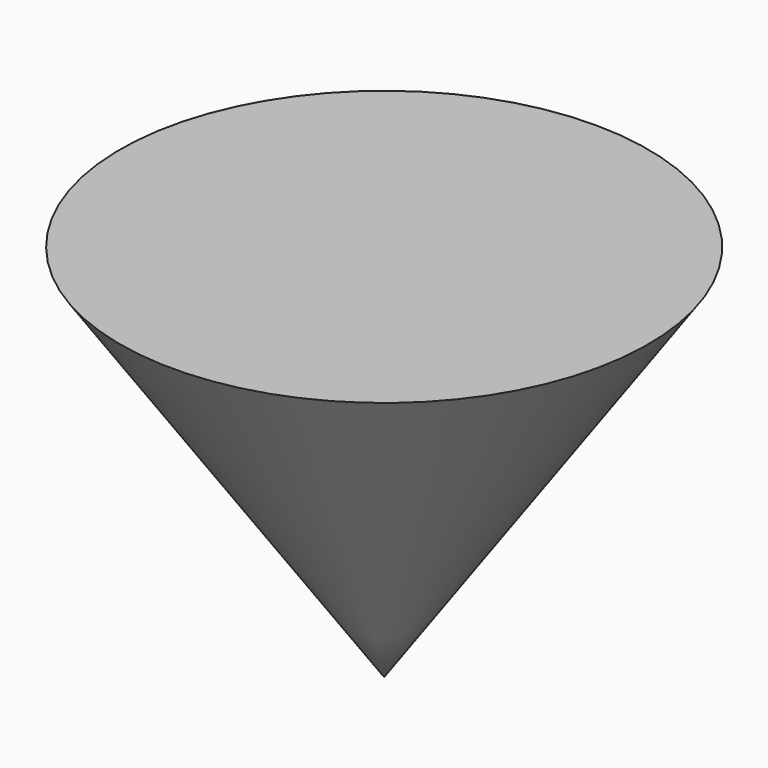
from build123d import *


with BuildPart() as f1:
    # F0 (on Right) → F1 (revolve)
    with BuildSketch(Plane.YZ):
        Polygon((23.380531, 0), (0, 0), (0, -33.55258), align=None)
    revolve(axis=Axis((0, 0, -16.77629), (0, 0, 1)))


solid = f1.part
